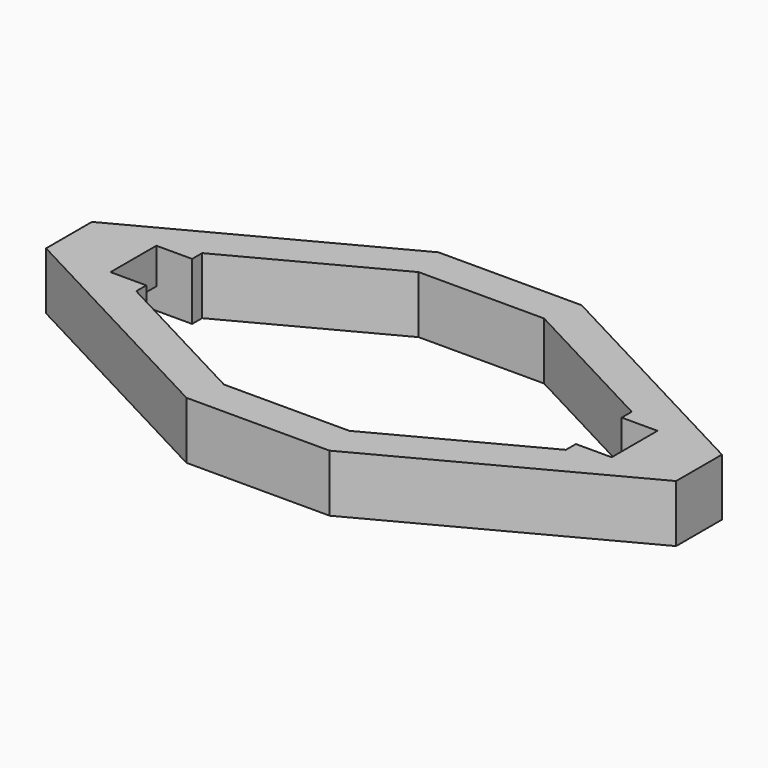
from build123d import *

# Parameters (mm, degrees)
F1_DEPTH = 4
F2_W     = 2.7
F2_H     = 4
F3_DEPTH = 1.5


with BuildPart() as f1:
    # F0 (on Top) → F1 (new body)
    with BuildSketch(Plane.XY):
        Polygon((-5, -11), (5, -11), (22, -2), (22, 2), (5, 11), (-5, 11), (-22, 2), (-22, -2), align=None)
        Polygon((15.0000007647, -2.8771487377), (4.3790599258, -8.4999997701), (-4.3790599258, -8.4999997701), (-14.9999995266, -2.8771493931), (-14.9999995266, -2), (-17.5000002913, -2), (-17.5, 2), (-14.9999995266, 2), (-14.9999995266, 2.8771493931), (-4.3790599258, 8.4999997701), (4.3790599258, 8.4999997701), (15.0000007647, 2.8771487377), (15.0000007647, 2), (17.5000002913, 2), (17.5, -2), (15.0000007647, -2), align=None, mode=Mode.SUBTRACT)
    extrude(amount=F1_DEPTH)

    # F2 (on face) → F3 (cut)
    with BuildSketch(Plane(origin=(0, 0, 0), x_dir=(1, 0, 0), z_dir=(0, 0, -1))):
        with Locations((-18.85, 0)):
            Rectangle(F2_W, F2_H)
        with Locations((18.85, 0)):
            Rectangle(F2_W, F2_H)
    extrude(amount=-F3_DEPTH, mode=Mode.SUBTRACT)


solid = f1.part
